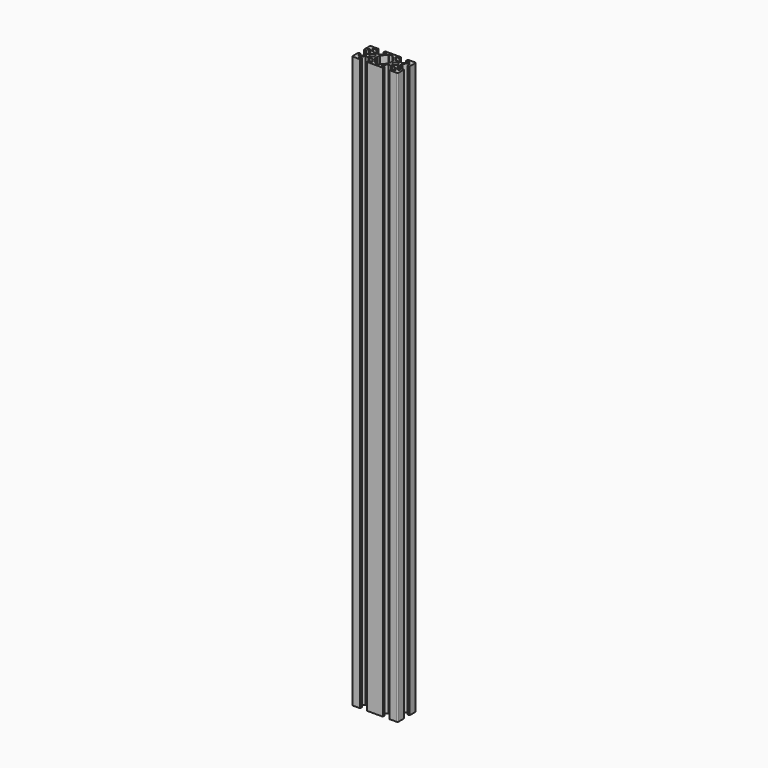
from build123d import *

# Parameters (mm, degrees)
F0_R     = 2.1
F1_DEPTH = 500


with BuildPart() as f1:
    # F0 (on Top) → F1 (new body)
    with BuildSketch(Plane.XY):
        with BuildLine():
            Line((14.135135, -0.519615), (13.835135, 0))
            Line((13.835135, 0), (14.135135, 0.519615))
            Line((14.135135, 0.519615), (14.135135, 2.93934))
            Line((14.135135, 2.93934), (17.195795, 6))
            Line((17.195795, 6), (18.135135, 6))
            Line((18.135135, 6), (18.135135, 3))
            Line((18.135135, 3), (20.135135, 3))
            Line((20.135135, 3), (20.135135, 9))
            ThreePointArc((20.135135, 9), (19.842242, 9.707107), (19.135135, 10))
            Line((19.135135, 10), (13.135135, 10))
            Line((13.135135, 10), (13.135135, 8))
            Line((13.135135, 8), (16.135135, 8))
            Line((16.135135, 8), (16.135135, 7.06066))
            Line((16.135135, 7.06066), (13.074475, 4))
            Line((13.074475, 4), (10.65475, 4))
            Line((10.65475, 4), (10.135135, 3.7))
            Line((10.135135, 3.7), (9.61552, 4))
            Line((9.61552, 4), (7.195795, 4))
            Line((7.195795, 4), (4.135135, 7.06066))
            Line((4.135135, 7.06066), (4.135135, 8))
            Line((4.135135, 8), (7.135135, 8))
            Line((7.135135, 8), (7.135135, 10))
            Line((7.135135, 10), (-6.864865, 10))
            Line((-6.864865, 10), (-6.864865, 8))
            Line((-6.864865, 8), (-3.864865, 8))
            Line((-3.864865, 8), (-3.864865, 7.06066))
            Line((-3.864865, 7.06066), (-6.925525, 4))
            Line((-6.925525, 4), (-9.34525, 4))
            Line((-9.34525, 4), (-9.864865, 3.7))
            Line((-9.864865, 3.7), (-10.38448, 4))
            Line((-10.38448, 4), (-12.804205, 4))
            Line((-12.804205, 4), (-15.864865, 7.06066))
            Line((-15.864865, 7.06066), (-15.864865, 8))
            Line((-15.864865, 8), (-12.864865, 8))
            Line((-12.864865, 8), (-12.864865, 10))
            Line((-12.864865, 10), (-18.864865, 10))
            ThreePointArc((-18.864865, 10), (-19.571972, 9.707107), (-19.864865, 9))
            Line((-19.864865, 9), (-19.864865, 3))
            Line((-19.864865, 3), (-17.864865, 3))
            Line((-17.864865, 3), (-17.864865, 6))
            Line((-17.864865, 6), (-16.925525, 6))
            Line((-16.925525, 6), (-13.864865, 2.93934))
            Line((-13.864865, 2.93934), (-13.864865, 0.519615))
            Line((-13.864865, 0.519615), (-13.564865, 0))
            Line((-13.564865, 0), (-13.864865, -0.519615))
            Line((-13.864865, -0.519615), (-13.864865, -2.93934))
            Line((-13.864865, -2.93934), (-16.925525, -6))
            Line((-16.925525, -6), (-17.864865, -6))
            Line((-17.864865, -6), (-17.864865, -3))
            Line((-17.864865, -3), (-19.864865, -3))
            Line((-19.864865, -3), (-19.864865, -9))
            ThreePointArc((-19.864865, -9), (-19.571972, -9.707107), (-18.864865, -10))
            Line((-18.864865, -10), (-12.864865, -10))
            Line((-12.864865, -10), (-12.864865, -8))
            Line((-12.864865, -8), (-15.864865, -8))
            Line((-15.864865, -8), (-15.864865, -7.06066))
            Line((-15.864865, -7.06066), (-12.804205, -4))
            Line((-12.804205, -4), (-10.38448, -4))
            Line((-10.38448, -4), (-9.864865, -3.7))
            Line((-9.864865, -3.7), (-9.34525, -4))
            Line((-9.34525, -4), (-6.925525, -4))
            Line((-6.925525, -4), (-3.864865, -7.06066))
            Line((-3.864865, -7.06066), (-3.864865, -8))
            Line((-3.864865, -8), (-6.864865, -8))
            Line((-6.864865, -8), (-6.864865, -10))
            Line((-6.864865, -10), (7.135135, -10))
            Line((7.135135, -10), (7.135135, -8))
            Line((7.135135, -8), (4.135135, -8))
            Line((4.135135, -8), (4.135135, -7.06066))
            Line((4.135135, -7.06066), (7.195795, -4))
            Line((7.195795, -4), (9.61552, -4))
            Line((9.61552, -4), (10.135135, -3.7))
            Line((10.135135, -3.7), (10.65475, -4))
            Line((10.65475, -4), (13.074475, -4))
            Line((13.074475, -4), (16.135135, -7.06066))
            Line((16.135135, -7.06066), (16.135135, -8))
            Line((16.135135, -8), (13.135135, -8))
            Line((13.135135, -8), (13.135135, -10))
            Line((13.135135, -10), (19.135135, -10))
            ThreePointArc((19.135135, -10), (19.842242, -9.707107), (20.135135, -9))
            Line((20.135135, -9), (20.135135, -3))
            Line((20.135135, -3), (18.135135, -3))
            Line((18.135135, -3), (18.135135, -6))
            Line((18.135135, -6), (17.195795, -6))
            Line((17.195795, -6), (14.135135, -2.93934))
            Line((14.135135, -2.93934), (14.135135, -0.519615))
        make_face()
        with Locations((-9.864865, 0)):
            Circle(F0_R, mode=Mode.SUBTRACT)
        Polygon((6.435135, 0), (6.135135, -0.519615), (6.135135, -2.93934), (3.074475, -6), (2.013815, -7.06066), (2.013815, -8), (-1.743545, -8), (-1.743545, -7.06066), (-2.804205, -6), (-5.864865, -2.93934), (-5.864865, -0.519615), (-6.164865, 0), (-5.864865, 0.519615), (-5.864865, 2.93934), (-2.804205, 6), (-1.743545, 7.06066), (-1.743545, 8), (2.013815, 8), (2.013815, 7.06066), (3.074475, 6), (6.135135, 2.93934), (6.135135, 0.519615), align=None, mode=Mode.SUBTRACT)
        with Locations((10.135135, 0)):
            Circle(F0_R, mode=Mode.SUBTRACT)
    extrude(amount=F1_DEPTH)


solid = f1.part
